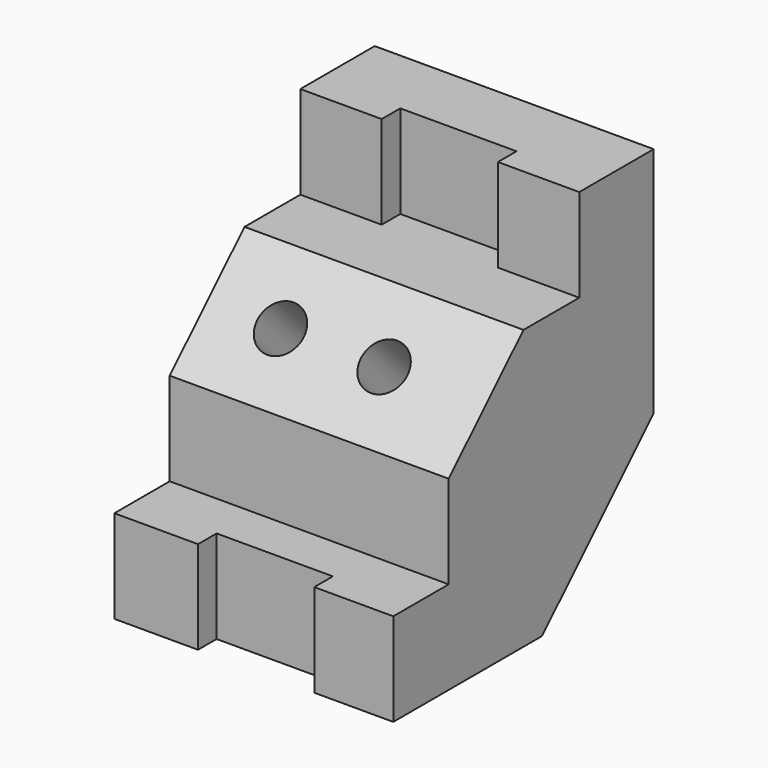
from build123d import *

# Parameters (mm, degrees)
F1_DEPTH = 76.2
F2_W     = 31.75
F2_H     = 25.4
F3_DEPTH = 6.35
F4_W     = 31.75
F4_H     = 25.4
F5_DEPTH = 6.35
F6_R     = 6.35
F7_DEPTH = 80.518


with BuildPart() as f1:
    # F0 (on Right) → F1 (new body)
    with BuildSketch(Plane.YZ):
        Polygon((0, 25.4), (0, 0), (50.8, 0), (88.9, 38.1), (88.9, 101.6), (63.5, 101.6), (63.5, 76.2), (44.45, 76.2), (18.9050504968, 50.8), (18.9050504968, 25.4), align=None)
    extrude(amount=F1_DEPTH)

    # F2 (on face) → F3 (cut)
    with BuildSketch(Plane.XZ.offset(-63.5)):
        with Locations((38.1, 88.9)):
            Rectangle(F2_W, F2_H)
    extrude(amount=-F3_DEPTH, mode=Mode.SUBTRACT)

    # F4 (on face) → F5 (cut)
    with BuildSketch(Plane.XZ):
        with Locations((38.735, 12.7)):
            Rectangle(F4_W, F4_H)
    extrude(amount=-F5_DEPTH, mode=Mode.SUBTRACT)

    # F6 (on face) → F7 (cut)
    with BuildSketch(Plane(origin=(0, -16.0008520758, 16.092163712), x_dir=(1, 0, 0), z_dir=(0, -0.7050920541, 0.7091157841))):
        with Locations((20.0781384668, 67.1823460538)):
            Circle(F6_R)
        with Locations((48.3754940052, 67.1823460538)):
            Circle(F6_R)
    extrude(amount=-F7_DEPTH, mode=Mode.SUBTRACT)


solid = f1.part
